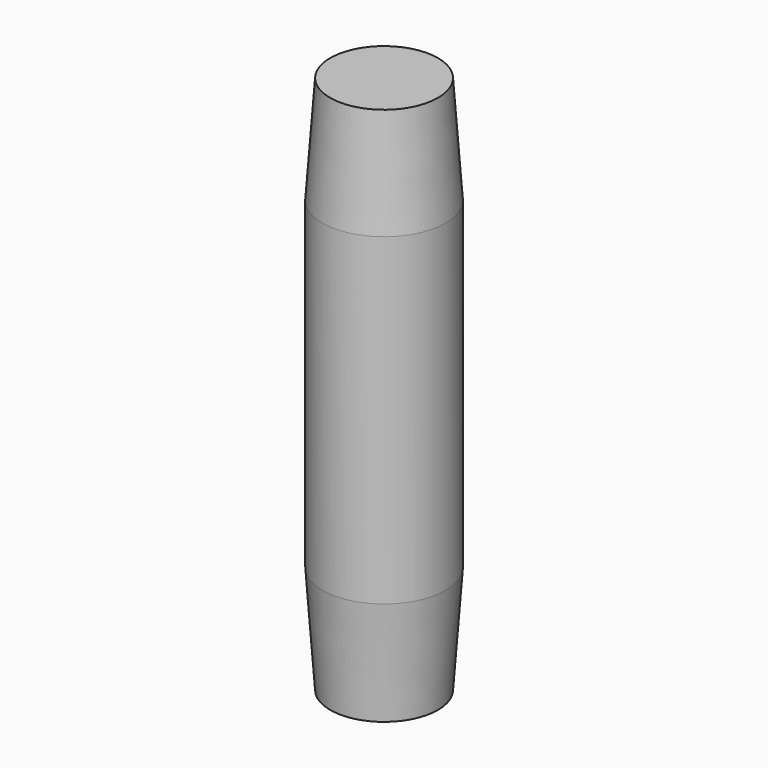
from build123d import *

# Parameters (mm, degrees)
F0_R       = 4
F1_DEPTH   = 35
F2_SIZE2   = 7
F2_SIZE    = 0.5
F2_2_SIZE2 = 7
F2_2_SIZE  = 0.5
F3_W       = 10
F3_H       = 35
F4_DEPTH   = 12.5


with BuildPart() as f1:
    # F0 (on Top) → F1 (new body)
    with BuildSketch(Plane.XY):
        Circle(F0_R)
    extrude(amount=F1_DEPTH)

    # F2
    f2_edges = [f1.edges().sort_by_distance(p)[0] for p in [
        (-4, 0, 35),
    ]]
    f2_side = f1.faces().sort_by_distance((0, 0, 35))[0]
    chamfer(f2_edges, length=F2_SIZE, length2=F2_SIZE2, reference=f2_side)

    # F2#2
    f2_2_edges = [f1.edges().sort_by_distance(p)[0] for p in [
        (-4, 0, 0),
    ]]
    f2_2_side = f1.faces().sort_by_distance((0, 0, 0))[0]
    chamfer(f2_2_edges, length=F2_2_SIZE, length2=F2_2_SIZE2, reference=f2_2_side)

    # F3 (on Right) → F4 (cut, symmetric)
    with BuildSketch(Plane.YZ):
        with Locations((8.9, 17.5)):
            Rectangle(F3_W, F3_H)
    extrude(amount=F4_DEPTH, both=True, mode=Mode.SUBTRACT)


solid = f1.part
